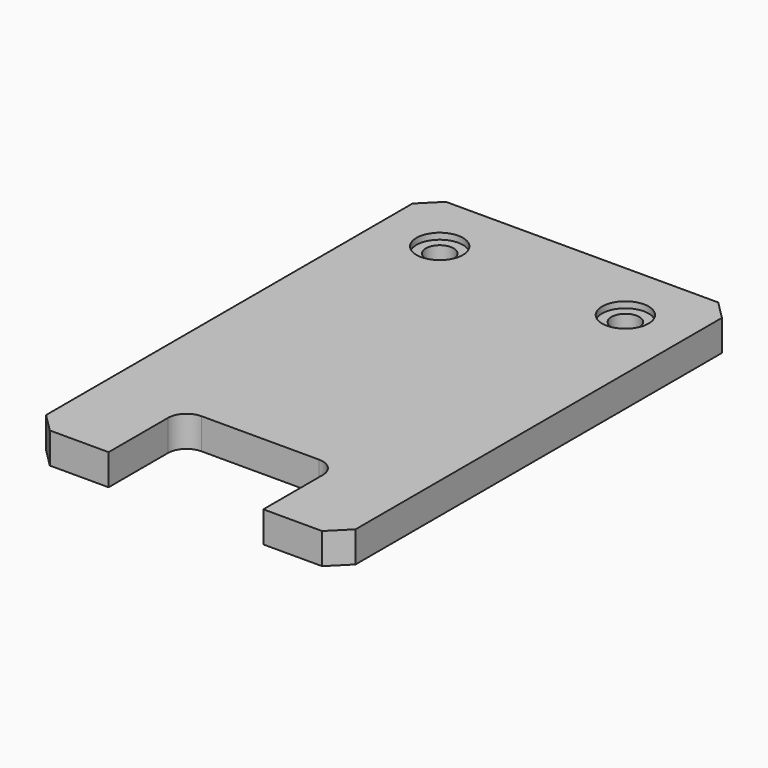
from build123d import *

# Parameters (mm, degrees)
F0_W     = 50
F0_H     = 80
F1_DEPTH = 5
F2_W     = 25
F2_H     = 15
F3_DEPTH = 25
F4_R     = 3
F6_SIZE  = 3
F7_D     = 4.5
F7_DEPTH = 12
F5_R     = 3.75
F8_DEPTH = 1


with BuildPart() as f1:
    # F0 (on Top) → F1 (new body)
    with BuildSketch(Plane.XY):
        with Locations((25, 40)):
            Rectangle(F0_W, F0_H)
    extrude(amount=F1_DEPTH)

    # F2 (on face) → F3 (cut)
    with BuildSketch(Plane.XY.offset(5)):
        with Locations((25, 7.5)):
            Rectangle(F2_W, F2_H)
    extrude(amount=-F3_DEPTH, mode=Mode.SUBTRACT)

    # F4
    f4_edges = [f1.edges().sort_by_distance(p)[0] for p in [
        (12.5, 15, 2.5),
        (37.5, 15, 2.5),
    ]]
    fillet(f4_edges, radius=F4_R)

    # F6
    f6_edges = [f1.edges().sort_by_distance(p)[0] for p in [
        (0, 80, 2.5),
        (50, 80, 2.5),
        (0, 0, 2.5),
        (50, 0, 2.5),
    ]]
    chamfer(f6_edges, length=F6_SIZE)

    # F7
    with Locations(Plane.XY.offset(5)):
        with Locations((10, 70), (40, 70)):
            Hole(F7_D / 2, depth=F7_DEPTH)

    # F5 (on face) → F8 (cut)
    with BuildSketch(Plane.XY.offset(5)):
        with Locations((10, 70)):
            Circle(F5_R)
        with Locations((40, 70)):
            Circle(F5_R)
    extrude(amount=-F8_DEPTH, mode=Mode.SUBTRACT)


solid = f1.part
